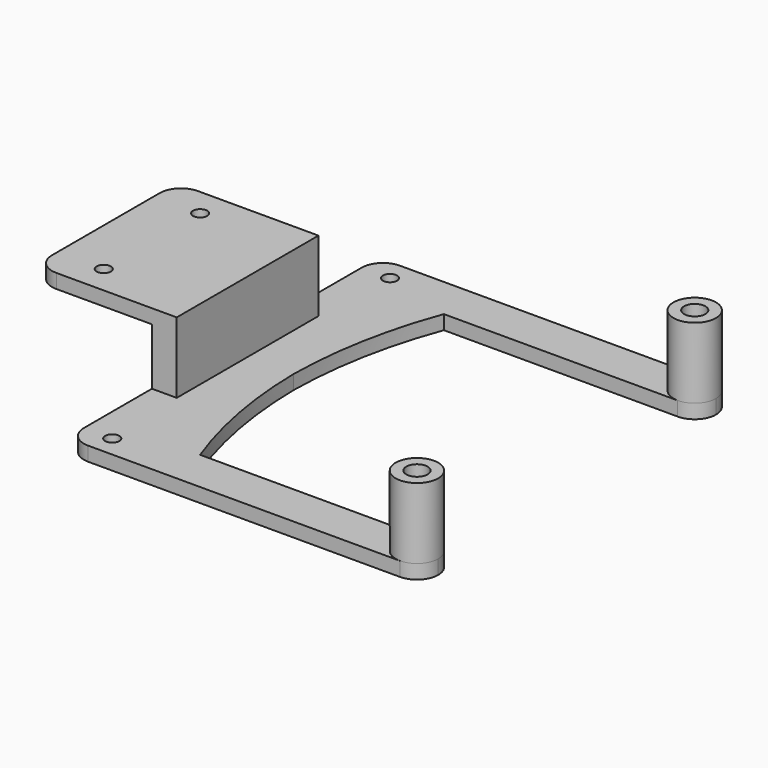
from build123d import *

# Parameters (mm, degrees)
F0_R     = 1
F1_DEPTH = 2
F2_R     = 3
F2_R_2   = 1.5
F3_DEPTH = 10
F4_W     = 3.5
F4_H     = 12.5
F5_DEPTH = 6
F6_DEPTH = 8
F7_R     = 1
F8_DEPTH = 2


with BuildPart() as f1:
    # F0 (on Top) → F1 (new body)
    with BuildSketch(Plane.XY):
        with BuildLine():
            ThreePointArc((0, 3), (0.87868, 0.87868), (3, 0))
            Line((3, 0), (47, 0))
            ThreePointArc((47, 0), (49.12132, 0.87868), (50, 3))
            ThreePointArc((50, 3), (49.12132, 5.12132), (47, 6))
            Line((47, 6), (14, 6))
            ThreePointArc((14, 6), (11.07073, 16.577113), (10, 27.5))
            Line((10, 27.5), (0, 27.5))
            Line((0, 27.5), (0, 6))
            Line((0, 6), (0, 3))
        make_face()
        with Locations((4, 3)):
            Circle(F0_R, mode=Mode.SUBTRACT)
    extrude(amount=F1_DEPTH)

    # F2 (on face) → F3 (join)
    with BuildSketch(Plane.XY.offset(2)):
        with Locations((47, 3)):
            Circle(F2_R)
        with Locations((47, 3)):
            Circle(F2_R_2, mode=Mode.SUBTRACT)
    extrude(amount=F3_DEPTH)

    # F4 (on face) → F5 (join)
    with BuildSketch(Plane.XY.offset(2)):
        with Locations((1.75, 21.25)):
            Rectangle(F4_W, F4_H)
    extrude(amount=F5_DEPTH)

    # F4 (on face) → F6 (join)
    with BuildSketch(Plane.XY.offset(2)):
        with Locations((1.75, 21.25)):
            Rectangle(F4_W, F4_H)
    extrude(amount=F6_DEPTH)

    # F7 (on face) → F8 (join)
    with BuildSketch(Plane.XY.offset(10)):
        with BuildLine():
            Line((3.5, 15), (3.5, 27.5))
            Line((3.5, 27.5), (-16.5, 27.5))
            Line((-16.5, 27.5), (-16.5, 18))
            ThreePointArc((-16.5, 18), (-15.62132, 15.87868), (-13.5, 15))
            Line((-13.5, 15), (3.5, 15))
        make_face()
        with Locations((-10, 19)):
            Circle(F7_R, mode=Mode.SUBTRACT)
    extrude(amount=F8_DEPTH)

    # F9: F1 across face


with BuildPart() as f1_1:
    add(f1.part)
    add(f1.part.mirror(Plane(origin=(-1.261364, 27.5, 7.136364), x_dir=(-1, 0, 0), z_dir=(0, 1, 0))))


solid = f1_1.part
